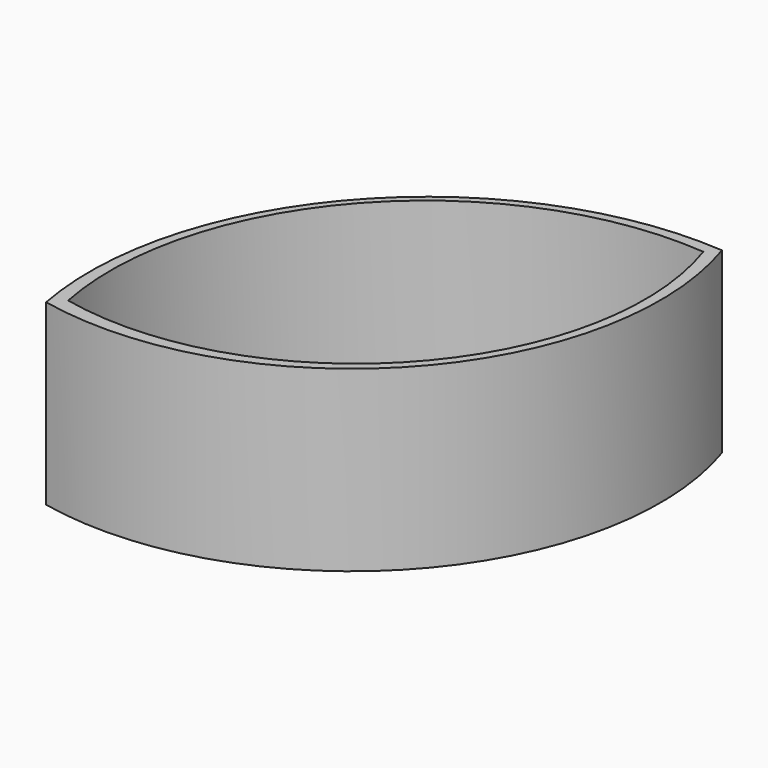
from build123d import *

# Parameters (mm, degrees)
F1_DEPTH = 914.4
F3_DEPTH = 914.401


with BuildPart() as f1:
    # F0 (on Top) → F1 (new body)
    with BuildSketch(Plane.XY):
        with BuildLine():
            ThreePointArc((-1103.879028, -724.522561), (401.091367, -232.086019), (728.133615, 1317.259974))
            ThreePointArc((728.133615, 1317.259974), (-690.725991, 747.559546), (-1103.879028, -724.522561))
        make_face()
    extrude(amount=F1_DEPTH)

    # F2 (on face) → F3 (cut, through all)
    with BuildSketch(Plane.XY.offset(914.4)):
        with BuildLine():
            ThreePointArc((677.545042, 1260.878886), (-661.514518, 730.600547), (-1044.093223, -657.891137))
            ThreePointArc((-1044.093223, -657.891137), (374.540847, -199.011934), (677.545042, 1260.878886))
        make_face()
    extrude(amount=-F3_DEPTH, mode=Mode.SUBTRACT)


solid = f1.part
